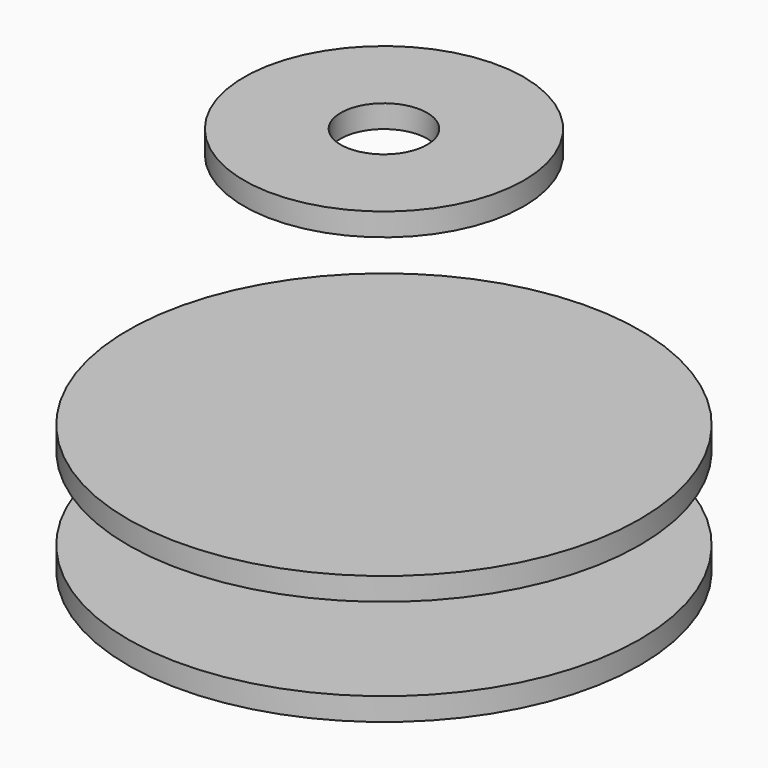
from build123d import *

# Parameters (mm, degrees)
F0_R     = 11.25
F1_DEPTH = 1
F3_R     = 11.25
F4_DEPTH = 1
F6_R     = 6.15
F6_R_2   = 1.9
F7_DEPTH = 1


with BuildPart() as f1:
    # F0 (on Top) → F1 (new body)
    with BuildSketch(Plane.XY):
        Circle(F0_R)
    extrude(amount=F1_DEPTH)


with BuildPart() as f4:
    # F3 (on offset) → F4 (new body)
    with BuildSketch(Plane.XY.offset(4.65)):
        Circle(F3_R)
    extrude(amount=F4_DEPTH)


with BuildPart() as f7:
    # F6 (on offset) → F7 (new body)
    with BuildSketch(Plane.XY.offset(16.1)):
        Circle(F6_R)
        Circle(F6_R_2, mode=Mode.SUBTRACT)
    extrude(amount=F7_DEPTH)


solid = Compound([f1.part, f4.part, f7.part])
